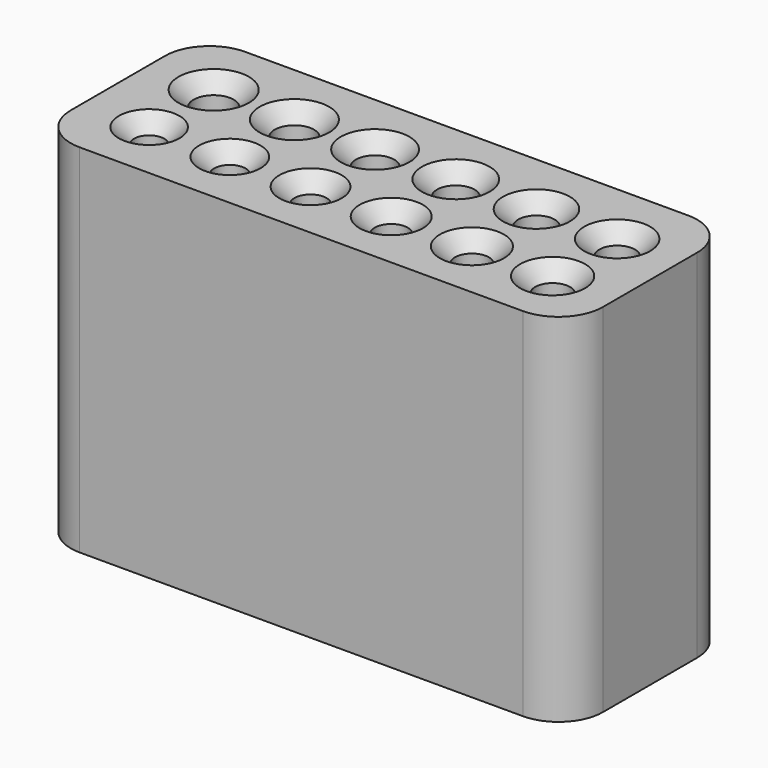
from build123d import *

# Parameters (mm, degrees)
SKETCH_W     = 11.94
SKETCH_H     = 4.64
SKETCH_R     = 0.34
SKETCH_R_2   = 0.45
SKETCH_R_3   = 0.44
SKETCH_R_4   = 0.43
SKETCH_R_5   = 0.42
SKETCH_R_6   = 0.41
SKETCH_R_7   = 0.4
SKETCH_R_8   = 0.35
SKETCH_R_9   = 0.36
SKETCH_R_10  = 0.37
SKETCH_R_11  = 0.38
SKETCH_R_12  = 0.39
PAD_DEPTH    = 8
CHAMFER_SIZE = 0.34
FILLET_R     = 1


with BuildPart() as part:
    # Sketch → Pad (new body)
    with BuildSketch(Plane.XY):
        Rectangle(SKETCH_W, SKETCH_H)
        with Locations((-4.5, -0.96)):
            Circle(SKETCH_R, mode=Mode.SUBTRACT)
        with Locations((-4.5, 0.85)):
            Circle(SKETCH_R_2, mode=Mode.SUBTRACT)
        with Locations((-2.69, 0.85)):
            Circle(SKETCH_R_3, mode=Mode.SUBTRACT)
        with Locations((-0.88, 0.85)):
            Circle(SKETCH_R_4, mode=Mode.SUBTRACT)
        with Locations((0.93, 0.85)):
            Circle(SKETCH_R_5, mode=Mode.SUBTRACT)
        with Locations((2.74, 0.85)):
            Circle(SKETCH_R_6, mode=Mode.SUBTRACT)
        with Locations((4.55, 0.85)):
            Circle(SKETCH_R_7, mode=Mode.SUBTRACT)
        with Locations((-2.69, -0.96)):
            Circle(SKETCH_R_8, mode=Mode.SUBTRACT)
        with Locations((-0.88, -0.96)):
            Circle(SKETCH_R_9, mode=Mode.SUBTRACT)
        with Locations((0.93, -0.96)):
            Circle(SKETCH_R_10, mode=Mode.SUBTRACT)
        with Locations((2.74, -0.96)):
            Circle(SKETCH_R_11, mode=Mode.SUBTRACT)
        with Locations((4.55, -0.96)):
            Circle(SKETCH_R_12, mode=Mode.SUBTRACT)
    extrude(amount=PAD_DEPTH)

    # Chamfer
    chamfer_edges = [part.edges().sort_by_distance(p)[0] for p in [
        (-4.16, -0.96, 4),
        (-4.84, -0.96, 0),
        (-4.84, -0.96, 8),
        (-4.05, 0.85, 4),
        (-4.95, 0.85, 0),
        (-4.95, 0.85, 8),
        (-2.25, 0.85, 4),
        (-3.13, 0.85, 0),
        (-3.13, 0.85, 8),
        (-2.34, -0.96, 4),
        (-3.04, -0.96, 0),
        (-3.04, -0.96, 8),
        (-0.45, 0.85, 4),
        (-1.31, 0.85, 0),
        (-1.31, 0.85, 8),
        (-0.52, -0.96, 4),
        (-1.24, -0.96, 0),
        (-1.24, -0.96, 8),
        (1.35, 0.85, 4),
        (0.51, 0.85, 0),
        (0.51, 0.85, 8),
        (1.3, -0.96, 4),
        (0.56, -0.96, 0),
        (0.56, -0.96, 8),
        (3.15, 0.85, 4),
        (2.33, 0.85, 0),
        (2.33, 0.85, 8),
        (3.12, -0.96, 4),
        (2.36, -0.96, 0),
        (2.36, -0.96, 8),
        (4.95, 0.85, 4),
        (4.15, 0.85, 0),
        (4.15, 0.85, 8),
        (4.94, -0.96, 4),
        (4.16, -0.96, 0),
        (4.16, -0.96, 8),
    ]]
    chamfer(chamfer_edges, length=CHAMFER_SIZE)

    # Fillet
    fillet_edges = [part.edges().sort_by_distance(p)[0] for p in [
        (5.97, -2.32, 4),
        (5.97, 2.32, 4),
        (-5.97, -2.32, 4),
        (-5.97, 2.32, 4),
    ]]
    fillet(fillet_edges, radius=FILLET_R)


solid = part.part
